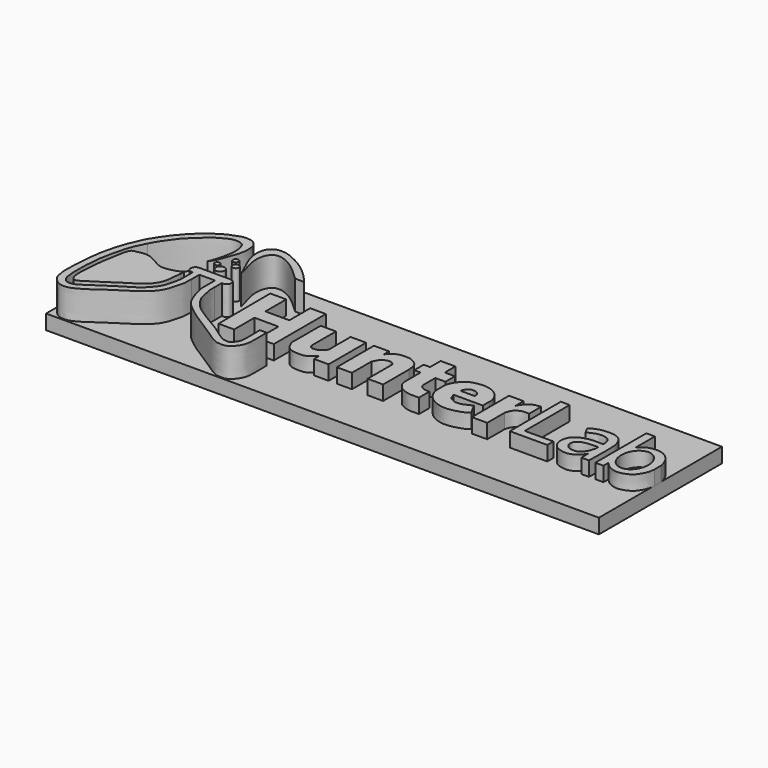
from build123d import *

# Parameters (mm, degrees)
F0_W     = 190.5479356647
F0_H     = 53.0045283958
F1_DEPTH = 5.08
F3_DEPTH = 5
F4_DEPTH = 5
F6_DEPTH = 10
F7_R     = 0.9189781366
F7_R_2   = 1.5392031522
F7_R_3   = 1.107100411
F7_R_4   = 0.9665418339
F8_DEPTH = 10.16


with BuildPart() as f1:
    # F0 (on Top) → F1 (new body)
    with BuildSketch(Plane.XY):
        with Locations((-0.5189217627, 12.5801884569)):
            Rectangle(F0_W, F0_H)
    extrude(amount=-F1_DEPTH)

    # F2 (on Top) → F3 (join)
    with BuildSketch(Plane.XY):
        Polygon((-44.4492064416, 25.3755506128), (-49.9579571187, 25.3755506128), (-49.8365350068, 2.9368929099), (-44.4492064416, 2.9368929099), (-44.4492064416, 11.6839418188), (-36.1860767007, 11.6839418188), (-36.1860767007, 2.9368929099), (-30.7988394052, 2.9368929099), (-30.7988394052, 25.3755506128), (-36.1860767007, 25.3755506128), (-36.1860767007, 16.3833219558), (-44.4492064416, 16.3833219558), align=None)
        with BuildLine():
            Line((-22.3410297185, 9.0154949576), (-22.3410297185, 19.1505327821))
            Line((-22.3410297185, 19.1505327821), (-27.6235342026, 19.1505327821))
            Line((-27.6235342026, 19.1505327821), (-27.6235342026, 7.9712793231))
            add(Edge.make_bspline(
                [(-27.6235342026, 7.9712793231), (-27.6646138133, 7.6154032761), (-27.75633931, 6.8207777526), (-26.9979192635, 5.197744595), (-26.5150837702, 4.2059687384), (-25.0590060068, 3.0349712838), (-23.4345045244, 2.714491189), (-20.5266136479, 2.5960382211), (-19.0427717816, 3.3020090668), (-17.7148161931, 4.4199988652), (-17.1762535917, 4.9641182382), (-16.9356763363, 5.2071777172)],
                knots=[0, 0, 0, 0, 0.0935001623, 0.2087738585, 0.3029190207, 0.4177064643, 0.5331773501, 0.6807825896, 0.7941102284, 0.9080285263, 1, 1, 1, 1], degree=3))
            Line((-16.9356763363, 5.2071777172), (-16.9356763363, 2.9344721697))
            Line((-16.9356763363, 2.9344721697), (-11.8988696486, 2.9344721697))
            Line((-11.8988696486, 2.9344721697), (-11.8988696486, 19.089108333))
            Line((-11.8988696486, 19.089108333), (-17.2427985817, 19.089108333))
            Line((-17.2427985817, 19.089108333), (-17.2427985817, 10.9810782596))
            add(Edge.make_bspline(
                [(-17.2427985817, 10.9810782596), (-17.1825305644, 10.6273765189), (-17.0323041071, 9.8038569914), (-18.2269301086, 8.3475439067), (-19.0659754853, 7.7464660444), (-20.3428857732, 7.3983335482), (-21.2100568084, 7.4739922986), (-22.0837959898, 7.66507704), (-22.243835611, 8.561065345), (-22.3410297185, 9.0154949576)],
                knots=[0, 0, 0, 0, 0.1414020598, 0.318356403, 0.4572680711, 0.6069390148, 0.7326035597, 0.8481614685, 1, 1, 1, 1], degree=3))
        make_face()
        with BuildLine():
            add(Edge.make_bspline(
                [(-3.9136882406, 16.7549792677), (-3.6784832128, 17.072673834), (-3.1411007953, 17.7985234283), (-1.2854995308, 19.0649014365), (-0.0561253689, 19.351337547), (2.5080921661, 19.442977076), (3.9254654759, 19.0577955121), (5.804105745, 17.8681101808), (6.4957249233, 16.8104483394), (6.7369194741, 15.4067520263), (6.8444867377, 14.5792703001), (6.897019688, 14.1751505435)],
                knots=[0, 0, 0, 0, 0.0995878967, 0.2275324858, 0.3289498069, 0.4654178031, 0.5748544237, 0.7019559904, 0.7997346237, 0.9021957916, 1, 1, 1, 1], degree=3))
            Line((-3.9136882406, 16.7549792677), (-3.9136882406, 19.0276838839))
            Line((-3.9136882406, 19.0276838839), (-9.1347675771, 19.0276838839))
            Line((-9.1347675771, 19.0276838839), (-9.1347675771, 2.9958968516))
            Line((-9.1347675771, 2.9958968516), (-3.9136882406, 2.9958968516))
            Line((-3.9136882406, 2.9958968516), (-3.9136882406, 11.5338983014))
            add(Edge.make_bspline(
                [(1.5530894743, 12.9466615617), (1.5936558751, 13.1967564651), (1.6760738193, 13.7048692732), (0.9961533136, 14.2043856242), (0.0254043094, 14.8384628896), (-1.7946625647, 14.2218427492), (-2.5593915981, 13.7063289126), (-3.1742912283, 12.9715703089), (-3.3656501745, 12.2095584507), (-3.7278395851, 11.7630256888), (-3.9136882406, 11.5338983014)],
                knots=[0, 0, 0, 0, 0.1069522229, 0.2172926901, 0.351830824, 0.5233577334, 0.6486993857, 0.7694651355, 0.8817066614, 1, 1, 1, 1], degree=3))
            Line((1.5530894743, 12.9466615617), (1.5530894743, 2.9344719369))
            Line((1.5530894743, 2.9344719369), (6.897019688, 2.9344719369))
            Line((6.897019688, 2.9344719369), (6.897019688, 14.1751505435))
        make_face()
        with BuildLine():
            add(Edge.make_bspline(
                [(15.5090745538, 9.3569066375), (15.5683555685, 9.1303730795), (15.704898378, 8.6085950928), (16.721538005, 7.770840767), (17.8379397216, 7.4140830407), (18.7495860719, 7.4914174426), (19.2243605852, 7.5316922739)],
                knots=[0, 0, 0, 0, 0.2028079502, 0.4671304546, 0.7224879154, 1, 1, 1, 1], degree=3))
            Line((15.5090745538, 9.3569066375), (15.5090745538, 14.6609535441))
            Line((15.5090745538, 14.6609535441), (18.9915299416, 14.6609535441))
            Line((18.9915299416, 14.6609535441), (18.9915299416, 18.7327489257))
            Line((18.9915299416, 18.7327489257), (15.5090745538, 18.7327489257))
            Line((15.5090745538, 18.7327489257), (15.5090745538, 23.2867281884))
            Line((15.5090745538, 23.2867281884), (10.4193333536, 23.2867281884))
            Line((10.4193333536, 23.2867281884), (10.4193333536, 18.7327489257))
            Line((10.4193333536, 18.7327489257), (8.2227056846, 18.7327489257))
            Line((8.2227056846, 18.7327489257), (8.2227056846, 14.6609535441))
            Line((8.2227056846, 14.6609535441), (10.4193333536, 14.6609535441))
            Line((10.4193333536, 14.6609535441), (10.4193333536, 7.7904979698))
            add(Edge.make_bspline(
                [(10.4193333536, 7.7904979698), (10.4473894984, 7.3983618272), (10.5260070135, 6.6478694383), (11.3874098692, 5.2542548886), (12.5539157245, 4.0473187293), (14.674236355, 3.2155645596), (16.1021772526, 2.8835311932), (18.0533973781, 2.965047745), (19.2243605852, 3.0141388997)],
                knots=[0, 0, 0, 0, 0.1314625658, 0.2860229432, 0.4481744162, 0.6305956498, 0.7809404076, 1, 1, 1, 1], degree=3))
            Line((19.2243605852, 3.0141388997), (19.2243605852, 7.5316922739))
        make_face()
        with BuildLine():
            Line((42.7341423929, 2.9893044848), (42.7341423929, 10.5205308646))
            add(Edge.make_bspline(
                [(48.2299029827, 14.1334850341), (47.4976246427, 14.2153261388), (46.0530664694, 14.2717479422), (44.4686937572, 13.6086393838), (43.1153641334, 12.2505000677), (42.9100206851, 10.9806222793), (42.7341423929, 10.5205308646)],
                knots=[0, 0, 0, 0, 0.2708521997, 0.5090231765, 0.7590137707, 1, 1, 1, 1], degree=3))
            Line((48.2299029827, 14.1334850341), (48.2299029827, 19.3239245564))
            add(Edge.make_bspline(
                [(42.4797087908, 15.4565377161), (42.7928564511, 16.0453818434), (43.4135955889, 17.2126222294), (44.9187711526, 18.5137880665), (46.229886697, 19.1873285864), (47.528288134, 19.2760060662), (48.2299029827, 19.3239245564)],
                knots=[0, 0, 0, 0, 0.2611604157, 0.517687059, 0.7393734237, 1, 1, 1, 1], degree=3))
            Line((42.4797087908, 15.4565377161), (42.4797087908, 18.967717886))
            Line((42.4797087908, 18.967717886), (37.4419316649, 18.967717886))
            Line((37.4419316649, 18.967717886), (37.4419316649, 2.9893044848))
            Line((37.4419316649, 2.9893044848), (42.7341423929, 2.9893044848))
        make_face()
        with BuildLine():
            add(Edge.make_bspline(
                [(33.6457844456, 8.6116297171), (33.2638367989, 8.3559131627), (32.3780483166, 8.0228981093), (31.0292936078, 7.3228098203), (29.8612769785, 7.0230757166), (28.2492464951, 6.9194453921), (26.9274786243, 7.6510835461), (25.7513229941, 8.5018496154), (25.6617488709, 9.6371781311), (25.4326779395, 10.11343766)],
                knots=[0, 0, 0, 0, 0.1411402682, 0.2866912953, 0.4179291829, 0.5659702024, 0.7115212295, 0.8501804006, 1, 1, 1, 1], degree=3))
            Line((25.4326779395, 10.11343766), (35.5082377791, 10.11343766))
            Line((35.5082377791, 10.11343766), (35.5082377791, 13.0139775574))
            add(Edge.make_bspline(
                [(35.5082377791, 13.0139775574), (35.5436651464, 13.3035487954), (35.6366276403, 14.0633925453), (34.6003497468, 16.6143725154), (32.7214864604, 18.3424764477), (29.9112845844, 19.5046492756), (26.6264552069, 19.3147195944), (23.5834601635, 18.5007880601), (21.6442056846, 16.4790667289), (20.0056542549, 13.777987193), (20.1402478567, 10.6470258621), (20.1372849657, 8.2073047332), (21.6781193468, 5.485817558), (23.8748999745, 3.7039316775), (26.8955383761, 2.5952187971), (30.1761509327, 2.5745594403), (33.6072900595, 3.6744996625), (34.5912272738, 4.1283776979), (35.3329534958, 4.8109885045), (35.5591215193, 5.1774312742)],
                knots=[0, 0, 0, 0, 0.0363976111, 0.095766779, 0.1547044161, 0.2173694894, 0.2838002919, 0.3478877709, 0.4083166303, 0.4726071902, 0.5365360923, 0.5936657298, 0.6568042091, 0.7183184242, 0.7828230972, 0.8504897015, 0.9187958677, 0.9573863721, 1, 1, 1, 1], degree=3))
            Line((35.5591215193, 5.1774312742), (33.6457844456, 8.6116297171))
        make_face()
        with BuildLine():
            Line((30.3177963942, 13.0648640916), (25.4835635424, 13.0648640916))
            add(Edge.make_bspline(
                [(25.4835635424, 13.0648640916), (25.5352573559, 13.3156653616), (25.6515669851, 13.8799611789), (26.4419574226, 14.922591667), (27.2329745776, 15.3769945052), (28.0418645592, 15.487791729), (28.9467212691, 15.4052629594), (29.6316265178, 15.0009730125), (30.2139213073, 14.2573400249), (30.3368678668, 13.5721485614), (30.3238081935, 13.2247726867), (30.3177963942, 13.0648640916)],
                knots=[0, 0, 0, 0, 0.1104045527, 0.2484071444, 0.3641788969, 0.4731917191, 0.5879413128, 0.6961628405, 0.8132530127, 0.9140341902, 1, 1, 1, 1], degree=3))
        make_face(mode=Mode.SUBTRACT)
    extrude(amount=F3_DEPTH)

    # F2 (on Top) → F4 (join)
    with BuildSketch(Plane.XY):
        Polygon((53.5730011761, 24.97234568), (50.5198016763, 24.97234568), (50.5198016763, 2.989305649), (63.4450167418, 2.989305649), (63.4450167418, 5.6354124099), (53.5730011761, 5.6354124099), align=None)
        with BuildLine():
            add(Edge.make_bspline(
                [(65.7858029008, 17.2884594649), (66.3537786007, 17.6549913319), (67.5487249604, 18.4245176456), (69.9531857509, 19.0694607729), (72.9442084471, 19.2093250481), (75.1793704869, 18.6185845459), (76.6216911755, 17.3678902265), (77.3394016255, 15.75085805), (78.1285460861, 13.2586571228), (77.8145931661, 7.4163391245), (77.8077989817, 2.9886621413)],
                knots=[0, 0, 0, 0, 0.1049447276, 0.2203698932, 0.3473683268, 0.4578077319, 0.5562468156, 0.6499910527, 0.7615694633, 1, 1, 1, 1], degree=3))
            Line((65.7858029008, 17.2884594649), (66.8544247746, 15.2021059766))
            add(Edge.make_bspline(
                [(66.8544247746, 15.2021059766), (67.4427954351, 15.4775711295), (68.6152693498, 16.0265035782), (70.3653930841, 16.6230071919), (72.6164355062, 16.6298023258), (74.2022020131, 15.7908905388), (74.8169050516, 14.4317457733), (74.9911107493, 12.7357170408), (74.1300514649, 12.7289043603), (71.0626916202, 12.8542479264), (68.9681451861, 12.3754378952), (66.7624362535, 11.57951287), (64.9507189252, 9.7799614953), (64.530128579, 7.5511896929), (64.756490342, 5.8967437486), (65.6361835272, 3.9887492223), (68.0289449475, 2.6087585553), (70.9097585491, 2.4143429894), (72.6720824798, 3.2108722993), (73.8930197671, 3.9917041723), (74.7717906831, 5.2976006214), (75.1741155982, 5.9195603244)],
                knots=[0, 0, 0, 0, 0.0522433157, 0.1034986501, 0.1593043056, 0.207829188, 0.2542492584, 0.2990022919, 0.3280744762, 0.3936446004, 0.4505850173, 0.5071118404, 0.5661110955, 0.6213956871, 0.6695311878, 0.7223182201, 0.7838692151, 0.8472245015, 0.8982435694, 0.9431490903, 1, 1, 1, 1], degree=3))
            Line((75.1741155982, 5.9195603244), (75.1741155982, 2.9886621413))
            Line((75.1741155982, 2.9886621413), (77.8077989817, 2.9886621413))
        make_face()
        with BuildLine():
            add(Edge.make_bspline(
                [(74.9118477106, 10.6424662732), (73.847285167, 10.6126920671), (71.8544124189, 10.5571833159), (69.543304743, 10.1668051539), (68.5902603043, 9.3386006978), (67.6889238304, 8.6264038336), (67.5841083298, 7.2939941749), (68.0125046543, 6.2531791152), (69.0534069689, 5.2202762792), (70.1717442359, 5.0080198819), (71.7704183035, 4.8666486813), (72.8287944809, 5.6316940728), (73.9074756986, 6.6476065707), (74.4895135988, 7.799887947), (74.8512913723, 9.3235767186), (74.9118477106, 9.3269402645)],
                knots=[0, 0, 0, 0, 0.1109542232, 0.2047728686, 0.2734572966, 0.3382999573, 0.4072421953, 0.4736805777, 0.5469146111, 0.6138136137, 0.690901923, 0.7613029418, 0.8355063374, 0.9126862554, 0.9859737195, 0.9859737195, 0.9859737195, 0.9859737195], degree=3))
            Line((74.9118477106, 10.6424662732), (74.9118477106, 9.3269402645))
        make_face(mode=Mode.SUBTRACT)
        with BuildLine():
            Line((82.9346105456, 16.5760461241), (82.9346105456, 24.97234568))
            Line((82.9346105456, 24.97234568), (79.9831822515, 24.97234568))
            Line((79.9831822515, 24.97234568), (79.9831822515, 2.9893054161))
            Line((79.9831822515, 2.9893054161), (82.7819481492, 2.9893054161))
            Line((82.7819481492, 2.9893054161), (82.7819481492, 5.2792052738))
            add(Edge.make_bspline(
                [(94.8579238184, 9.8081184551), (94.7767023858, 8.939873707), (94.5402474536, 7.2553484121), (92.8152902534, 4.3595842805), (91.116037194, 3.2164571745), (88.1750971956, 2.2299246456), (85.8882793651, 2.7411632526), (84.0105201074, 3.6866131859), (83.1899511265, 4.7503129211), (82.7819481492, 5.2792052738)],
                knots=[0.5134468604, 0.5134468604, 0.5134468604, 0.5134468604, 0.5852935544, 0.6649597605, 0.729192028, 0.8059306347, 0.8737887852, 0.9372453107, 1, 1, 1, 1], degree=3))
            Line((94.8579238184, 9.8081184551), (94.8579238184, 12.7076873314))
            add(Edge.make_bspline(
                [(82.9346105456, 16.5760461241), (83.4414321723, 17.1579091173), (84.4519825536, 18.318084293), (86.6567010288, 19.0713832849), (89.2326782697, 19.2791127595), (92.1239996189, 18.1536228865), (94.0337307654, 15.7421106916), (94.7158748059, 13.7306633393), (94.8579238184, 12.7076873314)],
                knots=[0, 0, 0, 0, 0.0671182055, 0.1338268232, 0.204957798, 0.2817415972, 0.3589120379, 0.4375428601, 0.4375428601, 0.4375428601, 0.4375428601], degree=3))
        make_face()
        with BuildLine():
            add(Edge.make_bspline(
                [(87.3108655214, 16.7509758422), (79.236123994, 16.7509758422), (83.2734947577, 7.9396211753), (87.3108655214, -0.8717334915), (91.3482362851, 7.9396211753), (95.3856070489, 16.7509758422), (87.3108655214, 16.7509758422)],
                knots=[0, 0, 0, 2.0943951024, 2.0943951024, 4.1887902048, 4.1887902048, 6.2831853072, 6.2831853072, 6.2831853072], degree=2, weights=[1, 0.5, 1, 0.5, 1, 0.5, 1]))
        make_face(mode=Mode.SUBTRACT)
    extrude(amount=F4_DEPTH)

    # F7 (on face) → F8 (join)
    with BuildSketch(Plane.XY):
        with Locations((-65.725915134, 22.266427055)):
            Circle(F7_R)
        with Locations((-63.2188618183, 20.3645247966)):
            Circle(F7_R_2)
        with Locations((-60.8847029507, 24.1683330387)):
            Circle(F7_R_3)
        with Locations((-62.9595071077, 26.7618391663)):
            Circle(F7_R_4)
        with BuildLine():
            Line((-69.7980448604, 11.7170178927), (-69.6960132417, 12.9323807471))
            add(Edge.make_bspline(
                [(-69.6960132417, 12.9323807471), (-70.4809766381, 12.5580997896), (-72.1344258288, 11.9334933532), (-73.7937493236, 11.5151112175), (-76.2365690094, 11.2120029405), (-77.9389593171, 11.8424587852), (-79.9714047684, 13.0024739062), (-81.8627091477, 14.098225802), (-83.165400782, 14.548694242), (-85.2182284609, 14.7224499251), (-87.1196118138, 14.029418341), (-89.1929319688, 14.1069463207), (-90.0118560125, 8.126629667), (-90.9012149755, 4.1722206135), (-91.3078916333, -1.6944447068), (-91.6172664421, -6.0064260381), (-90.9542867488, -8.1202619765), (-90.462858955, -8.9686524602), (-89.2043056842, -9.1331370467), (-88.0641933024, -8.3820712749), (-85.9029526426, -6.9125542067), (-83.2345086766, -5.4283912924), (-80.2476863067, -3.161406972), (-77.2769823082, -1.4974822109), (-75.2401673856, -0.0294726872), (-73.0791007804, 1.5632950766), (-71.5550732874, 3.1194477741), (-70.5090825958, 5.4740037708), (-70.2214811677, 7.2709208542), (-69.9586115849, 9.8796442958), (-69.7750037438, 11.1833775327), (-69.7980448604, 11.7170178927), (-69.7980448604, 11.6057675332)],
                knots=[0, 0, 0, 0, 0.035393249, 0.0646525022, 0.0981832149, 0.1276299827, 0.1612970632, 0.1935565328, 0.2191807242, 0.2501004319, 0.2813644369, 0.3087256331, 0.3591101884, 0.4059238646, 0.4587770635, 0.504802036, 0.5362200578, 0.5565980986, 0.5792990336, 0.6045462986, 0.6396945923, 0.6784678941, 0.7211140476, 0.7615090357, 0.7963429918, 0.831847161, 0.8643963779, 0.8987427444, 0.9288836013, 0.9643136099, 0.9916502887, 1, 1, 1, 1], degree=3))
            Line((-69.7980448604, 11.6057675332), (-69.7980448604, 11.7170178927))
        make_face()
    extrude(amount=F8_DEPTH)


with BuildPart() as f6:
    # F5 (on face) → F6 (new body)
    with BuildSketch(Plane.XY):
        with BuildLine():
            Line((-58.0599009991, 17.6135711372), (-68.3424025774, 17.6135711372))
            add(Edge.make_bspline(
                [(-68.3424025774, 17.6135711372), (-68.5920860022, 17.5144423069), (-69.1438973953, 17.5997663395), (-69.6991961638, 16.8435813627), (-69.8886155686, 16.0669870705), (-69.8885345294, 15.4487371651), (-69.4597033198, 14.8105504317), (-68.7236635162, 14.4857077409), (-68.2098509645, 14.490261047), (-67.9506883025, 14.4924893975)],
                knots=[0, 0, 0, 0, 0.1439961692, 0.2949803002, 0.4431705135, 0.5701324221, 0.7098579829, 0.8552519018, 1, 1, 1, 1], degree=3))
            Line((-67.9506883025, 14.4924893975), (-67.9506883025, 11.064988561))
            add(Edge.make_bspline(
                [(-67.9506883025, 11.064988561), (-67.9406196255, 10.6792034043), (-67.9191034487, 9.854802973), (-68.1075920769, 8.3199624262), (-68.5476029233, 6.328944749), (-69.0877277632, 4.2505858362), (-69.9786193166, 2.2873437552), (-73.0919863692, -1.1533619898), (-75.4916794794, -2.4502147976), (-81.7279110177, -6.3851569822), (-84.823924888, -8.6064629978), (-88.1009197644, -10.8051635616), (-89.216996739, -11.0015716012), (-91.0146745712, -11.1889313188), (-91.7489323428, -10.4185334025), (-92.465569765, -9.5806834219), (-92.8018716393, -8.4307773497), (-92.9094612645, -7.2578538032), (-93.1262865736, -5.8081027859), (-93.0900027467, -3.3038839445), (-93.1277464761, -1.0208342294), (-92.8482366607, 1.5624724802), (-92.7459718587, 2.9764291741), (-92.762893394, 4.2572450499), (-92.1892940449, 7.3449986311), (-91.7146271349, 9.5828720144), (-90.6146906674, 13.9641884045), (-89.557850477, 16.785838925), (-88.5049202454, 18.8860121226), (-87.9614129663, 19.9874471873)],
                knots=[0, 0, 0, 0, 0.0265412606, 0.0567464858, 0.0917995364, 0.1270040587, 0.1632396829, 0.2141987012, 0.256502818, 0.3214606443, 0.3720949639, 0.4184257054, 0.4449644815, 0.4761722942, 0.5004982664, 0.5258589302, 0.5522657549, 0.5784591285, 0.6079302412, 0.6462733835, 0.6841342769, 0.7232574682, 0.7517253854, 0.779190138, 0.821479994, 0.8600148668, 0.9110342848, 0.954166981, 1, 1, 1, 1], degree=3))
            add(Edge.make_bspline(
                [(-68.9264982939, 21.9414830208), (-68.6694476361, 22.5101277541), (-68.0922965244, 23.7868953101), (-67.2625342435, 26.7769158087), (-66.8772752972, 28.9329926803), (-66.5906375016, 30.6227769452), (-66.7174224364, 32.6364621372), (-67.1452997498, 34.1256045794), (-67.4950930118, 35.4396764904), (-68.9418276664, 36.140930495), (-70.2738498732, 36.2940239258), (-72.1766836927, 36.0799181663), (-74.1358056933, 34.9979131733), (-76.1131523161, 33.9300624343), (-78.0761944621, 32.2306659646), (-79.8561828475, 30.7821471759), (-81.8251879315, 28.7234179698), (-83.0744653444, 27.4929670642), (-84.6550700185, 25.2122681395), (-86.1576244026, 23.1795979235), (-87.1358258541, 21.5678407843), (-87.6888368264, 20.5092305095), (-87.9614129663, 19.9874471873)],
                knots=[0, 0, 0, 0, 0.0495860674, 0.1113346846, 0.1633412594, 0.2088624521, 0.2581973952, 0.3020356183, 0.3414141958, 0.3837471939, 0.4244105907, 0.4720294033, 0.5242334999, 0.5769765217, 0.6327535036, 0.6867417335, 0.744903168, 0.7917533381, 0.8495582842, 0.9057984148, 0.9535685443, 1, 1, 1, 1], degree=3))
            add(Edge.make_bspline(
                [(-68.9264982939, 21.9414830208), (-68.4916352201, 22.498191726), (-67.5308582862, 23.7281717247), (-66.3705702483, 26.9023907132), (-65.5101539744, 29.1697256964), (-64.503242546, 32.6217349823), (-64.5806877674, 35.2338772285), (-65.0895195365, 37.4654183926), (-66.4514888302, 38.5507325706), (-67.4762674166, 38.9673065779), (-68.1647144757, 39.0107275054), (-69.9703798332, 39.1899175031), (-71.5560123133, 38.5974069043), (-73.7035529108, 37.8678582301), (-75.9581308176, 36.7522723299), (-78.5852226064, 34.9394697052), (-81.1992378452, 32.8912193498), (-83.7211077549, 30.2180451507), (-85.6887116079, 28.0242599462), (-87.5355686451, 25.4225607795), (-88.1344052755, 24.3644471453), (-89.8105176785, 21.883435505), (-90.7324448442, 19.6262051459), (-92.1861801426, 16.5349238181), (-93.2825336336, 13.1656874437), (-93.8767789565, 10.7360618601), (-94.6389285533, 7.5808289862), (-94.9726876108, 4.5117799632), (-95.358687529, 0.6823064484), (-95.5865255108, -2.8250712408), (-95.6362810481, -6.7348492532), (-95.3350260201, -8.2928504136), (-94.9167606999, -10.7909560644), (-93.3251851238, -12.0841844866), (-92.6889723299, -12.7873906961), (-91.5173642612, -13.3114718523), (-90.6729296461, -13.381926104), (-89.3652739001, -13.5151046933), (-88.0280255931, -13.1284569841), (-86.4981106249, -12.4476715516), (-83.6673441732, -10.8914271491), (-81.5786481525, -8.9481857003), (-78.0280149405, -6.94473613), (-75.5019240297, -5.1973490658), (-72.9934601127, -3.6770449662), (-70.8799145546, -1.9586621668), (-69.3842198686, -0.6060043383), (-68.0785281167, 1.0518382566), (-67.004970139, 3.4074847244), (-66.5471671327, 5.1845679288), (-65.9845185253, 7.1470752199), (-65.7651820065, 8.6776516311), (-65.7221559265, 10.2141847507), (-65.6983330846, 11.064988561)],
                knots=[0, 0, 0, 0, 0.0191429548, 0.0422939238, 0.0626793301, 0.0865760748, 0.1074440685, 0.1262827953, 0.1427628816, 0.1557487689, 0.1663173203, 0.183067566, 0.199886928, 0.2189123273, 0.2392250037, 0.2619378112, 0.2854112617, 0.309696632, 0.3322258837, 0.354399024, 0.368852183, 0.3903188699, 0.4107155266, 0.4342811026, 0.4582918071, 0.4785833187, 0.5012541626, 0.5239168214, 0.5487251611, 0.5733494954, 0.5981005488, 0.6144792869, 0.6342876069, 0.6521411606, 0.6646679338, 0.6786272023, 0.6905424685, 0.7049229198, 0.7197618548, 0.7363234858, 0.7589662329, 0.7809713046, 0.8065306978, 0.8291380185, 0.8509476616, 0.8719595473, 0.8899526397, 0.9084587388, 0.9288554047, 0.9464120441, 0.96431326, 0.9802396378, 1, 1, 1, 1], degree=3))
            Line((-65.6983330846, 11.064988561), (-65.6983330846, 14.4924893975))
            Line((-65.6983330846, 14.4924893975), (-60.3156499565, 14.4924893975))
            Line((-60.3156499565, 14.4924893975), (-60.3156499565, 11.2608456984))
            add(Edge.make_bspline(
                [(-60.3156499565, 11.2608456984), (-60.3558447753, 10.511621147), (-60.4242419128, 8.8890908004), (-59.7903573278, 6.2669685644), (-58.6479790926, 2.6163481825), (-57.1922945495, -0.1217811847), (-54.7127748034, -2.1665545481), (-51.7244842525, -4.5534678558), (-48.6087377052, -6.3214874722), (-45.342257616, -8.4925180411), (-42.9274361296, -10.1385215778), (-40.6949747458, -11.7037458776), (-39.4300050661, -12.4526743093), (-37.5905737524, -13.4267616199), (-36.4696479277, -13.4396701398), (-34.7840422572, -13.601363316), (-33.3674869326, -12.9485849377), (-32.321575944, -11.9790017458), (-31.2250552372, -10.494297746), (-30.6343692704, -8.9781867104), (-30.3800876092, -7.2092176725), (-30.4003603456, -5.2866633003), (-30.3666731005, -2.4877933074), (-30.4332921917, -1.1534739222), (-30.4640575761, -0.5585319886)],
                knots=[0, 0, 0, 0, 0.0451125804, 0.0940884682, 0.1522435618, 0.2042586034, 0.2569993172, 0.3149847308, 0.3717947417, 0.4303600776, 0.4820296543, 0.5300740211, 0.5670084772, 0.6086543366, 0.6404586821, 0.6783681079, 0.7148968285, 0.750316181, 0.7903733975, 0.8283186335, 0.8673321296, 0.909024314, 0.9587554819, 1, 1, 1, 1], degree=3))
            Line((-30.4640575761, -0.5585319886), (-32.8103874361, -0.5585319886))
            add(Edge.make_bspline(
                [(-57.9374656081, 11.3587742671), (-57.9649343186, 10.7675457364), (-58.0187436543, 9.6093692539), (-57.6108148595, 8.072312676), (-57.3025219931, 6.0374985964), (-56.9134223844, 4.2742807247), (-55.81932256, 2.3832171867), (-54.4330050688, 0.5635884923), (-52.9049559216, -0.9524983167), (-49.7706314851, -3.0064694632), (-47.3789718961, -4.4710289663), (-45.300914174, -5.6989005151), (-42.7635943711, -7.0865349213), (-40.891246624, -8.6027597661), (-38.5949573794, -10.1649894486), (-37.1695736046, -11.0188908228), (-36.0331485341, -11.1039956294), (-34.8595503611, -11.2313286555), (-34.0792147802, -10.3634295093), (-33.2470275887, -9.3648390176), (-32.7295472221, -7.939568174), (-32.7672231372, -6.4839694559), (-32.7077813829, -4.6403762695), (-32.6897005967, -2.7924797857), (-32.7693363636, -1.3333122252), (-32.8103874361, -0.5585319886)],
                knots=[0, 0, 0, 0, 0.0410008696, 0.0803582364, 0.124816595, 0.1667861798, 0.2126029605, 0.2593157147, 0.3052886098, 0.3654861448, 0.4181839652, 0.4664723218, 0.5189861264, 0.5681958456, 0.6201356134, 0.6598452652, 0.6926988967, 0.725140356, 0.7574294257, 0.7932236438, 0.830947263, 0.8685753319, 0.9106825302, 0.9532404128, 1, 1, 1, 1], degree=3))
            Line((-57.9374656081, 11.3587742671), (-57.9374656081, 14.4924893975))
            add(Edge.make_bspline(
                [(-57.9374656081, 14.4924893975), (-57.6404940995, 14.4637998827), (-57.1576119503, 14.4118539389), (-56.4982426266, 14.7978007529), (-55.9301763176, 15.243068477), (-55.8534374541, 16.6722351464), (-56.2803530282, 17.0944444043), (-56.838545789, 17.4857589529), (-57.4552854108, 17.6443594013), (-57.8576144552, 17.6238721163), (-58.0599009991, 17.6135711372)],
                knots=[0, 0, 0, 0, 0.1293057218, 0.2521068778, 0.3747063847, 0.5413353617, 0.652095238, 0.7706826923, 0.8866302044, 1, 1, 1, 1], degree=3))
        make_face()
    extrude(amount=F6_DEPTH)


with BuildPart() as f6b:
    # F5 (on face) → F6, piece 2 (new body)
    with BuildSketch(Plane.XY):
        with BuildLine():
            add(Edge.make_bspline(
                [(-44.1023334861, 28.8063604385), (-44.5138658245, 29.205327786), (-45.4020734023, 30.0664164255), (-47.1846390945, 31.6907829414), (-49.0779619975, 33.2992651223), (-51.2338690951, 34.8202317782), (-53.3577913834, 35.8158657523), (-54.7606096677, 36.2885487122), (-56.0902496516, 36.3269180173), (-57.2276531282, 36.1090626411), (-58.1602985432, 35.216104542), (-59.0100010203, 33.797140228), (-59.3208882438, 31.7598599158), (-59.2764971907, 30.3890757161), (-59.1807667972, 28.7604428363), (-58.5949499627, 27.2084200034), (-58.1397076518, 24.9307546226), (-57.5474161928, 22.9470308121), (-57.2253540158, 21.8683686107)],
                knots=[0, 0, 0, 0, 0.0610980895, 0.1318676103, 0.2044105844, 0.2790798053, 0.3488776768, 0.4041484179, 0.4560859062, 0.5042013848, 0.5546591426, 0.6135535721, 0.6785825009, 0.732617358, 0.7898365844, 0.8482949262, 0.9175094194, 1, 1, 1, 1], degree=3))
            Line((-44.1023334861, 28.8063604385), (-41.0367101431, 28.8063604385))
            add(Edge.make_bspline(
                [(-41.0367101431, 28.8063604385), (-41.7449803662, 29.6619515204), (-43.2786023249, 31.5145682594), (-46.8792139036, 34.7569878743), (-50.071411917, 36.7603145477), (-53.9406297458, 38.6528612536), (-56.0225398115, 39.0756268582), (-58.5305781973, 39.1731336804), (-60.511715557, 37.7938541363), (-61.4070988667, 35.7681416421), (-61.6542240073, 32.8039434335), (-60.4042657155, 28.7018553267), (-59.1901233053, 26.2897172362), (-57.9381420157, 23.4723657112), (-57.2253540158, 21.8683686107)],
                knots=[0, 0, 0, 0, 0.0864156617, 0.1871163746, 0.2790500756, 0.3732029716, 0.4409142173, 0.5119448848, 0.5812080758, 0.6479697141, 0.7274023322, 0.8216964172, 0.8984867783, 1, 1, 1, 1], degree=3))
        make_face()
    extrude(amount=F6_DEPTH)


solid = Compound([f1.part, f6.part, f6b.part])
